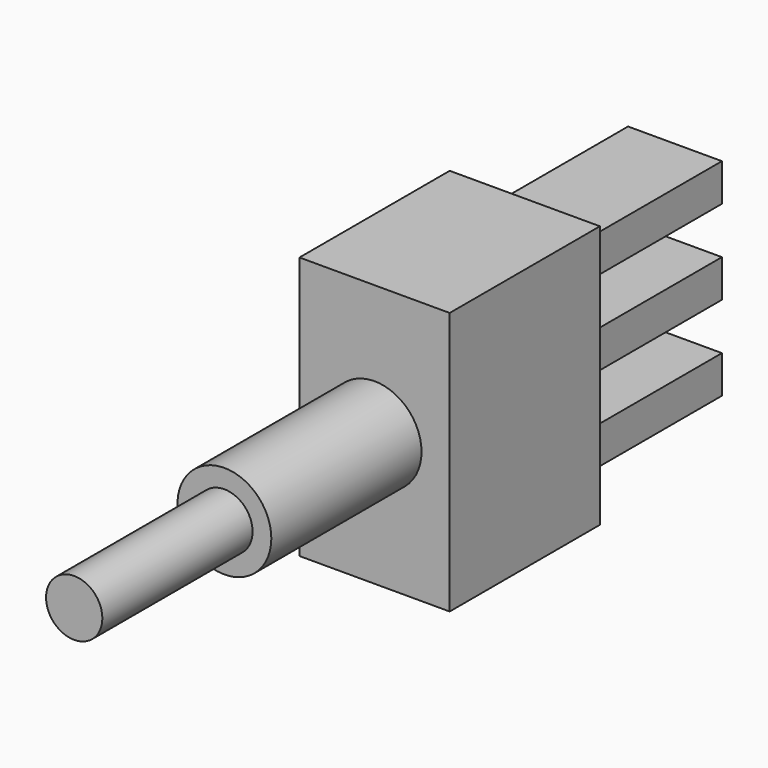
from build123d import *

# Parameters (mm, degrees)
SKETCH038_R  = 2.5
PAD037_DEPTH = 10
SKETCH039_R  = 1.5
PAD038_DEPTH = 10
SKETCH040_W  = 8
SKETCH040_H  = 14
PAD039_DEPTH = 10
SKETCH041_W  = 5
SKETCH041_H  = 2
PAD040_DEPTH = 10


with BuildPart() as part:
    # Sketch038 → Pad037 (new body)
    with BuildSketch(Plane.XZ):
        Circle(SKETCH038_R)
    extrude(amount=PAD037_DEPTH)

    # Sketch039 (on Face3 of Pad037) → Pad038 (join)
    with BuildSketch(Plane.XZ.offset(10)):
        Circle(SKETCH039_R)
    extrude(amount=PAD038_DEPTH)

    # Sketch040 (on Face2 of Pad038) → Pad039 (join)
    with BuildSketch(Plane(origin=(0, 0, 0), x_dir=(1, 0, 0), z_dir=(0, 1, 0))):
        Rectangle(SKETCH040_W, SKETCH040_H)
    extrude(amount=PAD039_DEPTH)

    # Sketch041 (on Face5 of Pad039) → Pad040 (join)
    with BuildSketch(Plane(origin=(0, 10, 0), x_dir=(1, 0, 0), z_dir=(0, 1, 0))):
        with Locations((0, 4.5)):
            Rectangle(SKETCH041_W, SKETCH041_H)
        Rectangle(SKETCH041_W, SKETCH041_H)
        with Locations((0, -4.5)):
            Rectangle(SKETCH041_W, SKETCH041_H)
    extrude(amount=PAD040_DEPTH)


solid = part.part
